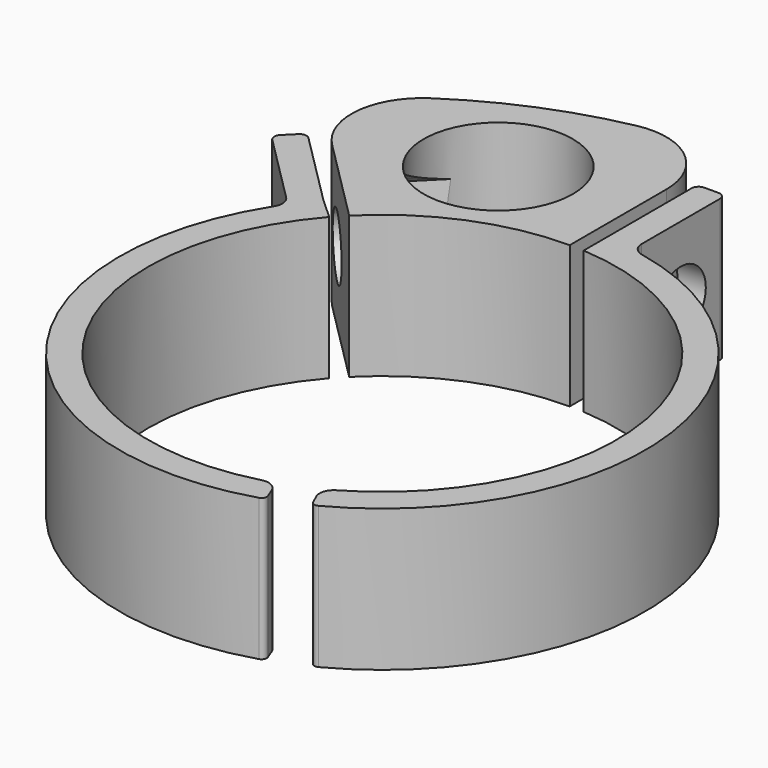
from build123d import *

# Parameters (mm, degrees)
F0_R     = 5.25
F1_DEPTH = 10
F2_R     = 2.2
F3_DEPTH = 8
F4_R     = 2.2
F5_DEPTH = 10
F7_START = -1.5
F6_R     = 2.2
F7_DEPTH = 6.5
F9_START = -1.5
F9_DEPTH = 6.5


with BuildPart() as f1:
    # F0 (on Top) → F1 (new body)
    with BuildSketch(Plane.XY):
        with BuildLine():
            ThreePointArc((-5.9805522045, 29.9036640052), (-11.6702518977, 28.1744804079), (-16.9161945814, 25.3739726195))
            ThreePointArc((-16.9161945814, 25.3739726195), (-19.1183375056, 21.7064108966), (-17.6782033476, 17.6782033476))
            Line((-17.6782033476, 17.6782033476), (-11.6672618896, 11.6672618896))
            ThreePointArc((-11.6672618896, 11.6672618896), (-6.314276634, 15.2440122864), (0, 16.5))
            Line((0, 16.5), (0, 18.4958378407))
            Line((0, 18.4958378407), (0, 24.4958378407))
            Line((0, 24.4958378407), (0, 25.0007549326))
            ThreePointArc((0, 25.0007549326), (-1.830044245, 28.8674564354), (-5.9805522045, 29.9036640052))
        make_face()
        with Locations((-8.9168733158, 21.3495848101)):
            Circle(F0_R, mode=Mode.SUBTRACT)
    extrude(amount=F1_DEPTH)


with BuildPart() as f1b:
    # F0 (on Top) → F1, piece 2 (new body)
    with BuildSketch(Plane.XY):
        with BuildLine():
            Line((1, 25.9687849473), (1, 18.4687849473))
            Line((1, 18.4687849473), (1, 16.469669092))
            ThreePointArc((1, 16.469669092), (16.0634695679, 3.770298424), (8.2231766572, -14.3048762048))
            ThreePointArc((8.2231766572, -14.3048762048), (7.7685045207, -14.8690130872), (7.8141598257, -15.5921263334))
            Line((7.8141598257, -15.5921263334), (8.0983557873, -16.2056980308))
            ThreePointArc((8.0983557873, -16.2056980308), (8.3123062852, -16.3978955775), (8.5990245809, -16.3753715588))
            ThreePointArc((8.5990245809, -16.3753715588), (18.3188515552, 2.552585969), (3.7948280021, 18.1023561413))
            ThreePointArc((3.7948280021, 18.1023561413), (3.2237358704, 18.4506742686), (3, 19.0810820739))
            Line((3, 19.0810820739), (3, 25.9687849473))
            ThreePointArc((3, 25.9687849473), (2.8535533906, 26.3223383379), (2.5, 26.4687849473))
            Line((2.5, 26.4687849473), (1.5, 26.4687849473))
            ThreePointArc((1.5, 26.4687849473), (1.1464466094, 26.3223383379), (1, 25.9687849473))
        make_face()
    extrude(amount=F1_DEPTH)


with BuildPart() as f1c:
    # F0 (on Top) → F1, piece 3 (new body)
    with BuildSketch(Plane.XY):
        with BuildLine():
            Line((-12.4241290652, 10.8577551909), (-13.9029173231, 12.1985616914))
            Line((-13.9029173231, 12.1985616914), (-19.206218182, 17.5018625503))
            ThreePointArc((-19.206218182, 17.5018625503), (-19.5597715726, 17.6483091597), (-19.9133249632, 17.5018625503))
            Line((-19.9133249632, 17.5018625503), (-20.6204317443, 16.7947557691))
            ThreePointArc((-20.6204317443, 16.7947557691), (-20.7668783538, 16.4412023785), (-20.6204317443, 16.0876489879))
            Line((-20.6204317443, 16.0876489879), (-15.7275263694, 11.194743613))
            ThreePointArc((-15.7275263694, 11.194743613), (-15.4405353912, 10.5961248254), (-15.5916515212, 9.9496944814))
            ThreePointArc((-15.5916515212, 9.9496944814), (-14.7115589314, -11.2100870309), (5.4563781376, -17.6726895251))
            ThreePointArc((5.4563781376, -17.6726895251), (5.6763731445, -17.4846153752), (5.6901796061, -17.1955149246))
            Line((5.6901796061, -17.1955149246), (5.4491898521, -16.5555640304))
            ThreePointArc((5.4491898521, -16.5555640304), (4.9705921678, -16.0186393737), (4.2554411406, -15.9418094407))
            ThreePointArc((4.2554411406, -15.9418094407), (-14.0084225871, -8.7185963501), (-12.4241290652, 10.8577551909))
        make_face()
    extrude(amount=F1_DEPTH)


with BuildPart() as f3_tool:
    # F2 (on face) → F3 (new body)
    with BuildSketch(Plane.YZ.offset(3)):
        with Locations((22.5249335106, 5)):
            Circle(F2_R)
    extrude(amount=-F3_DEPTH)


with BuildPart() as f1_1:
    add(f1.part)

    # F3: cut by f3_tool
    add(f3_tool.part, mode=Mode.SUBTRACT)


with BuildPart() as f1b_1:
    add(f1b.part)

    # F3: cut by f3_tool
    add(f3_tool.part, mode=Mode.SUBTRACT)


with BuildPart() as f5_tool:
    # F4 (on face) → F5 (new body)
    with BuildSketch(Plane(origin=(-2.2663913782, -2.2663913782, 0), x_dir=(0.7071067812, -0.7071067812, 0), z_dir=(-0.7071067812, -0.7071067812, 0))):
        with Locations((-22.4967262398, 5)):
            Circle(F4_R)
    extrude(amount=-F5_DEPTH)


with BuildPart() as f1_2:
    add(f1_1.part)

    # F5: cut by f5_tool
    add(f5_tool.part, mode=Mode.SUBTRACT)

    # F6 (on face) → F7 (cut)
    with BuildSketch(Plane(origin=(0, 0, 0), x_dir=(0.7071067812, -0.7071067812, 0), z_dir=(-0.7071067812, -0.7071067812, 0)).offset(F7_START)):
        Polygon((-19.0293720816, 7.2929141155), (-22.7487710335, 9.1492738427), (-25.0007549326, 7.6600675388), (-25.0007549326, 2.2262881477), (-22.2446814462, 0.8507261573), (-18.777327288, 3.1436402728), align=None)
        with Locations((-22.4967262398, 5)):
            Circle(F6_R, mode=Mode.SUBTRACT)
        with Locations((-22.4967262398, 5)):
            Circle(F6_R)
        Polygon((-25.0007549326, 2.2262881477), (-25.0007549326, 7.6600675388), (-26.2161251917, 6.8563597272), (-25.9640803981, 2.7070858845), align=None)
    extrude(amount=-F7_DEPTH, mode=Mode.SUBTRACT)

    # F8 (on face) → F9 (cut)
    with BuildSketch(Plane.YZ.offset(F9_START)):
        Polygon((23.6427854055, 9.0037990885), (19.6164677358, 7.9699876829), (18.4986158409, 3.9661885943), (21.4070816158, 0.9962009115), (25.4333992855, 2.0300123171), (26.5512511804, 6.0338114057), align=None)
    extrude(amount=-F9_DEPTH, mode=Mode.SUBTRACT)


with BuildPart() as f1c_1:
    add(f1c.part)

    # F5: cut by f5_tool
    add(f5_tool.part, mode=Mode.SUBTRACT)


solid = Compound([f1b_1.part, f1_2.part, f1c_1.part])
